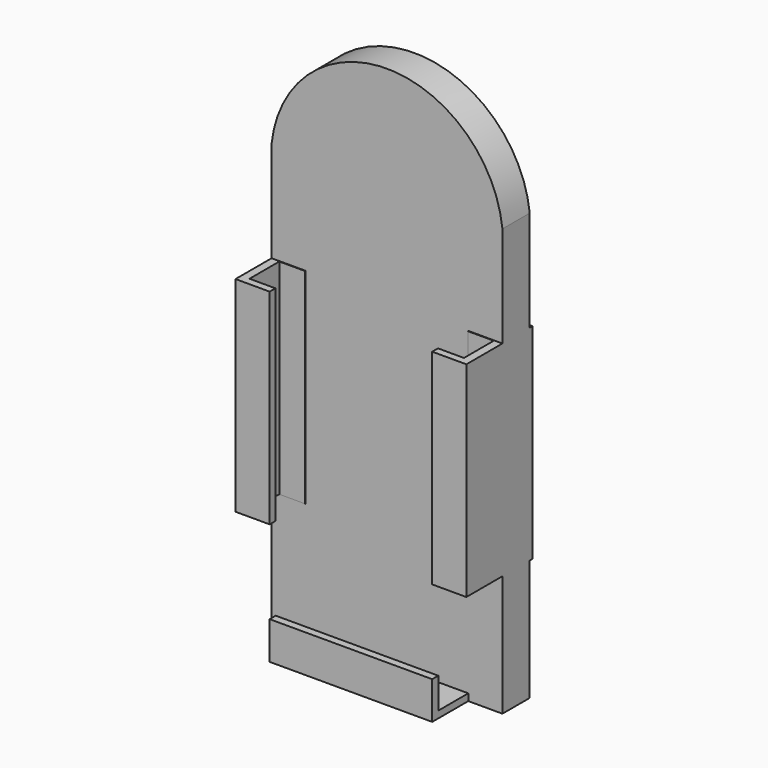
from build123d import *

# Parameters (mm, degrees)
F1_DEPTH      = 6.35
F0_W          = 12.7
F0_H          = 76.2
F2_DEPTH      = 23.114
F2_DEPTH_BACK = 7.62
F3_W          = 13.847873
F3_H          = 81.732566
F4_DEPTH      = 70.104
F4_DEPTH_BACK = 9.652
F5_W          = 60.452
F5_H          = 13.946542
F6_DEPTH      = 11.43


with BuildPart() as f1:
    # F0 (on Front) → F1 (new body, symmetric)
    with BuildSketch(Plane.XZ):
        Polygon((38.65377, -59.13078), (51.35377, -59.13078), (51.35377, -21.038081), (51.35377, -14.115668), (38.65377, -14.115668), (38.65377, 62.084332), (51.35377, 62.084332), (51.35377, 68.237185), (51.35377, 99.61922), (-34.49823, 99.61922), (-34.49823, 69.908112), (-34.49823, 62.084332), (-21.79823, 62.084332), (-21.79823, -14.115668), (-34.49823, -14.115668), (-34.49823, -20.321971), (-34.49823, -59.13078), (-30.726077, -59.13078), (-21.79823, -59.13078), (-21.79823, -45.147181), (38.65377, -45.147181), align=None)
        with BuildLine():
            Line((-34.49823, 99.61922), (51.35377, 99.61922))
            ThreePointArc((51.35377, 99.61922), (8.42777, 138.122584), (-34.49823, 99.61922))
        make_face()
    extrude(amount=F1_DEPTH, both=True)

    # F0 (on Front) → F2 (join, two sides)
    with BuildSketch(Plane.XZ) as f2_sk:
        with Locations((-28.14823, 23.984332)):
            Rectangle(F0_W, F0_H)
        with Locations((45.00377, 23.984332)):
            Rectangle(F0_W, F0_H)
        Polygon((35.63362, -59.13078), (38.65377, -59.13078), (38.65377, -45.147181), (-21.79823, -45.147181), (-21.79823, -59.13078), align=None)
    extrude(amount=F2_DEPTH)
    extrude(f2_sk.sketch, amount=-F2_DEPTH_BACK)

    # F3 (on face) → F4 (cut, two sides)
    with BuildSketch(Plane.YZ.offset(-21.79823)) as f4_sk:
        with Locations((-13.503438, 23.114669)):
            Rectangle(F3_W, F3_H)
    extrude(amount=F4_DEPTH, mode=Mode.SUBTRACT)
    extrude(f4_sk.sketch, amount=-F4_DEPTH_BACK, mode=Mode.SUBTRACT)

    # F5 (on face) → F6 (cut)
    with BuildSketch(Plane.XY.offset(-45.147181)):
        with Locations((8.42777, -13.323271)):
            Rectangle(F5_W, F5_H)
    extrude(amount=-F6_DEPTH, mode=Mode.SUBTRACT)


solid = f1.part
